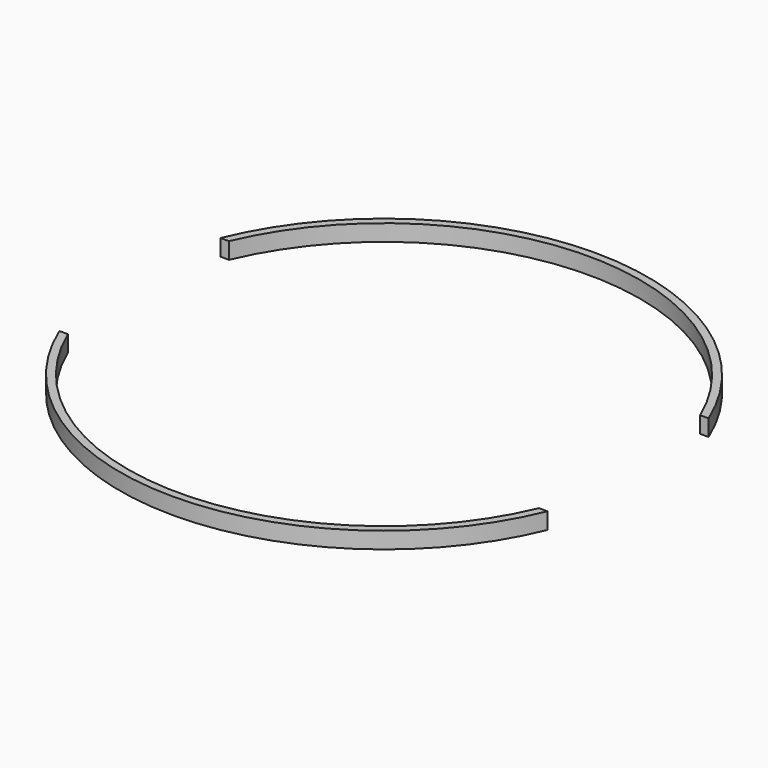
from build123d import *

# Parameters (mm, degrees)
BOX003_W          = 5
BOX003_H          = 22
BOX003_DEPTH      = 2.5
BOX002_W          = 5
BOX002_H          = 22
BOX002_DEPTH      = 2.5
CYLINDER001_R     = 28
CYLINDER001_DEPTH = 1.8
CYLINDER_R        = 28.85
CYLINDER_DEPTH    = 1.8


with BuildPart() as box003:
    # Box003 → Box003 (new body)
    with BuildSketch(Plane(origin=(54.7, 18.85, 1.9), x_dir=(1, 0, 0), z_dir=(0, 0, 1))):
        with Locations((2.5, 11)):
            Rectangle(BOX003_W, BOX003_H)
    extrude(amount=BOX003_DEPTH)


with BuildPart() as box002:
    # Box002 → Box002 (new body)
    with BuildSketch(Plane(origin=(0, 18.85, 1.9), x_dir=(1, 0, 0), z_dir=(0, 0, 1))):
        with Locations((2.5, 11)):
            Rectangle(BOX002_W, BOX002_H)
    extrude(amount=BOX002_DEPTH)


with BuildPart() as cylinder_inside:
    # Cylinder001 → Cylinder001 (new body)
    with BuildSketch(Plane(origin=(29.85, 29.85, 2.4), x_dir=(1, 0, 0), z_dir=(0, 0, 1))):
        Circle(CYLINDER001_R)
    extrude(amount=CYLINDER001_DEPTH)


with BuildPart() as cylinder:
    # Cylinder → Cylinder (new body)
    with BuildSketch(Plane(origin=(29.85, 29.85, 2.4), x_dir=(1, 0, 0), z_dir=(0, 0, 1))):
        Circle(CYLINDER_R)
    extrude(amount=CYLINDER_DEPTH)

    # Cut: cut Cylinder_Inside
    add(cylinder_inside.part, mode=Mode.SUBTRACT)

    # Cut001: cut Box002
    add(box002.part, mode=Mode.SUBTRACT)

    # Cut002: cut Box003
    add(box003.part, mode=Mode.SUBTRACT)


solid = cylinder.part
